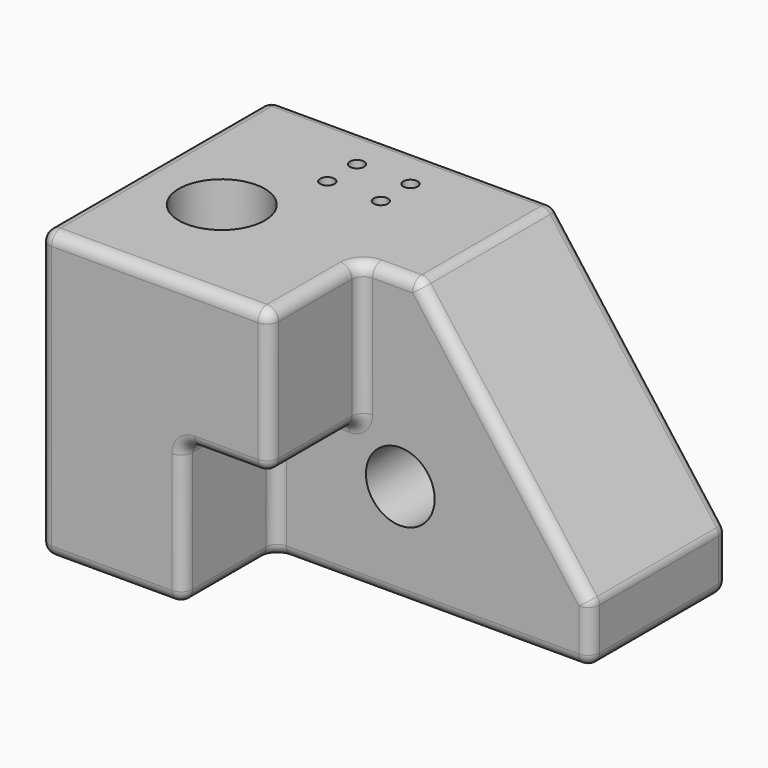
from build123d import *

# Parameters (mm, degrees)
F0_W      = 203.2
F0_H      = 127
F1_DEPTH  = 127
F3_DEPTH  = 101.6
F4_DEPTH  = 50.8
F5_SIZE2  = 101.6
F5_SIZE   = 76.2
F6_R      = 5.08
F8_DEPTH  = 76.2
F9_R      = 19.05
F10_DEPTH = 127
F12_D     = 6.35


with BuildPart() as f1:
    # F0 (on Front) → F1 (new body)
    with BuildSketch(Plane.XZ):
        with Locations((2.3381854308, 0)):
            Rectangle(F0_W, F0_H)
    extrude(amount=F1_DEPTH)

    # F2 (on face) → F3 (cut)
    with BuildSketch(Plane.XZ.offset(127)):
        Polygon((-35.7618145692, 0), (-35.7618145692, -63.5), (103.9381854308, -63.5), (103.9381854308, 63.5), (2.3381854308, 63.5), (2.3381854308, 0), align=None)
    extrude(amount=-F3_DEPTH, mode=Mode.SUBTRACT)

    # F4 (add): a face of the model
    f4_faces = [f1.faces().sort_by_distance(p)[0] for p in [
        (42.1092380623, -25.4, -5.0131578947),
    ]]
    extrude(f4_faces, amount=F4_DEPTH)

    # F5
    f5_edges = [f1.edges().sort_by_distance(p)[0] for p in [
        (103.938185, -38.1, 63.5),
    ]]
    f5_side = f1.faces().sort_by_distance((-10.361815, -53.975, 63.5))[0]
    chamfer(f5_edges, length=F5_SIZE, length2=F5_SIZE2, reference=f5_side)

    # F6
    f6_edges = [f1.edges().sort_by_distance(p)[0] for p in [
        (-67.511815, -127, -63.5),
        (2.338185, -101.6, 0),
        (-35.761815, -101.6, -63.5),
        (-99.261815, -63.5, 63.5),
        (2.338185, -101.6, 63.5),
        (15.038185, -76.2, 63.5),
        (65.838185, -76.2, 12.7),
        (-16.711815, -127, 0),
        (103.938185, -38.1, -63.5),
        (-35.761815, 0, 63.5),
        (65.838185, 0, 12.7),
        (34.088185, -76.2, -63.5),
        (-48.461815, -127, 63.5),
        (27.738185, -38.1, 63.5),
        (103.938185, -38.1, -38.1),
        (-35.761815, -76.2, -31.75),
        (-99.261815, 0, 0),
        (-16.711815, -76.2, 0),
        (2.338185, 0, -63.5),
        (-99.261815, -127, 0),
        (-99.261815, -63.5, -63.5),
        (-35.761815, -101.6, 0),
        (2.338185, -76.2, 31.75),
        (2.338185, -127, 31.75),
        (-35.761815, -127, -31.75),
        (103.938185, 0, -50.8),
        (103.938185, -76.2, -50.8),
    ]]
    fillet(f6_edges, radius=F6_R)

    # F7 (on face) → F8 (cut, through all)
    with BuildSketch(Plane.XZ.offset(76.2)):
        with BuildLine():
            Line((19.7116794232, -18.8833934691), (34.9488621098, -18.5903682534))
            ThreePointArc((34.9488621098, -18.5903682534), (8.7301641023, -8.3162783823), (20.0047046389, -34.1205761556))
            Line((20.0047046389, -34.1205761556), (19.7116794232, -18.8833934691))
        make_face()
        with BuildLine():
            ThreePointArc((20.0047046389, -34.1205761556), (30.5910935684, -29.5555979207), (34.9516794232, -18.8833934691))
            ThreePointArc((34.9516794232, -18.8833934691), (34.9509750786, -18.7368740896), (34.9488621098, -18.5903682534))
            Line((34.9488621098, -18.5903682534), (19.7116794232, -18.8833934691))
            Line((19.7116794232, -18.8833934691), (20.0047046389, -34.1205761556))
        make_face()
    extrude(amount=-F8_DEPTH, mode=Mode.SUBTRACT)

    # F9 (on face) → F10 (cut, through all)
    with BuildSketch(Plane.XY.offset(63.5)):
        with Locations((-61.6576299071, -73.365047574)):
            Circle(F9_R)
    extrude(amount=-F10_DEPTH, mode=Mode.SUBTRACT)

    # F12 (through all)
    with Locations(Plane.XY.offset(63.5)):
        with Locations((-44.0687574446, -20.4515326768), (-44.0687574446, -36.8853211403), (-20.3539002687, -20.4515326768), (-20.3539002687, -36.8853211403)):
            Hole(F12_D / 2)


solid = f1.part
